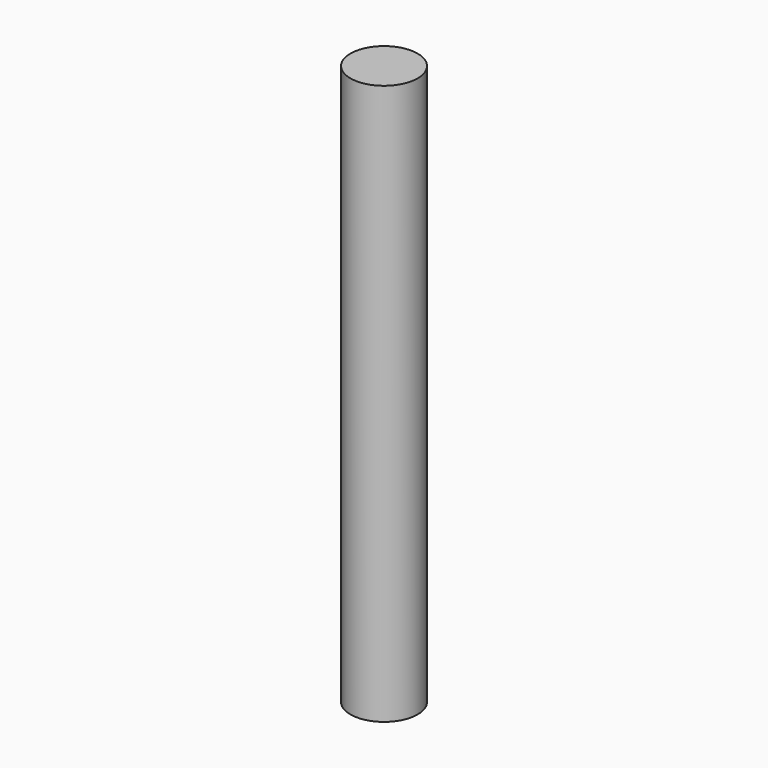
from build123d import *

# Parameters (mm, degrees)
SKETCH_R  = 6
PAD_DEPTH = 100


with BuildPart() as part:
    # Sketch → Pad (new body)
    with BuildSketch(Plane.XY):
        Circle(SKETCH_R)
    extrude(amount=PAD_DEPTH)


solid = part.part
